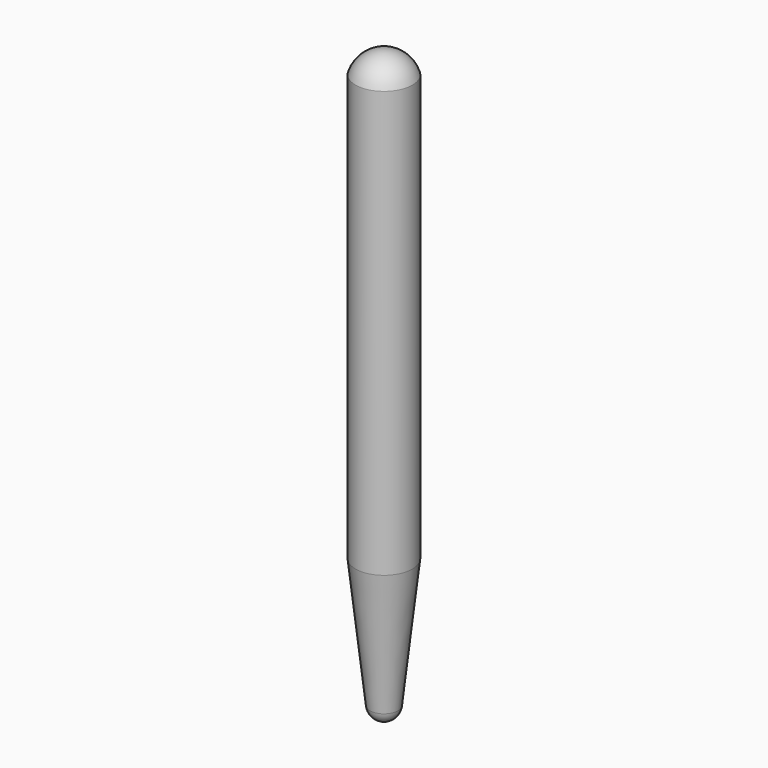
from build123d import *


with BuildPart() as f1:
    # F0 (on Front) → F1 (revolve)
    with BuildSketch(Plane.XZ):
        Polygon((0, 3.6691137626), (0, 3.9654470959), (-1.016, 3.9654470959), (-1.016, -11.2745529041), (0, -11.2745529041), align=None)
        with BuildLine():
            Line((-1.016, 3.9654470959), (0, 3.9654470959))
            Line((0, 3.9654470959), (0, 4.7274470959))
            ThreePointArc((0, 4.7274470959), (-0.635, 4.5157804293), (-1.016, 3.9654470959))
        make_face()
        with BuildLine():
            Line((0, -16.3545529041), (0, -11.2745529041))
            Line((0, -11.2745529041), (-1.016, -11.2745529041))
            Line((-1.016, -11.2745529041), (-0.5049302606, -15.9023151842))
            ThreePointArc((-0.5049302606, -15.9023151842), (-0.3389223817, -16.2249648742), (0, -16.3545529041))
        make_face()
    revolve(axis=Axis((0, 0, -6.8781828024), (0, 0, -1)))


solid = f1.part
